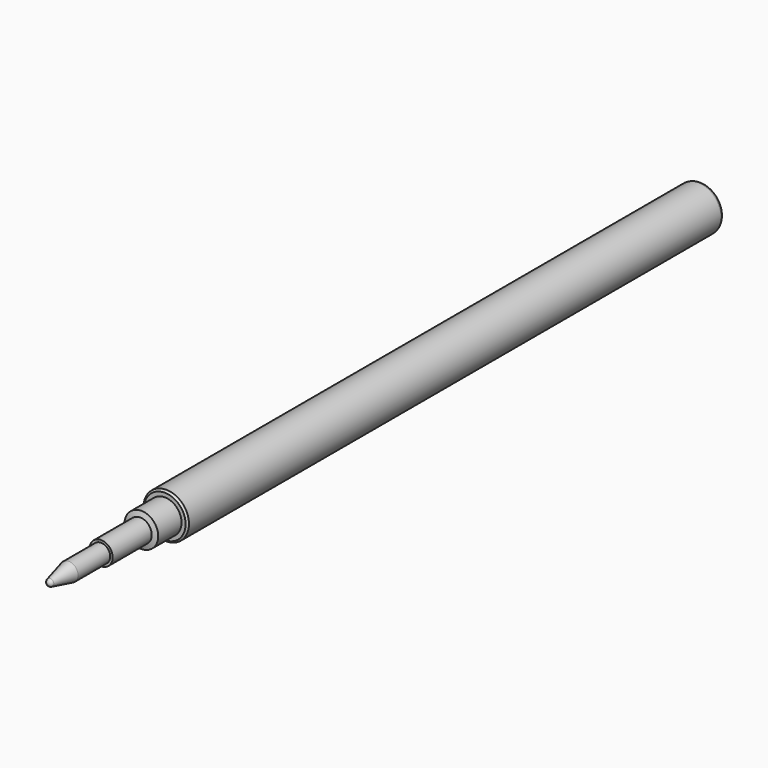
from build123d import *

# Parameters (mm, degrees)
F0_W    = 90.932
F0_H    = 3.0861
F4_SIZE = 0.254
F5_R    = 0.508


with BuildPart() as f1:
    # F0 (on Right) → F1 (revolve)
    with BuildSketch(Plane.YZ):
        with Locations((-5.334, 1.54305)):
            Rectangle(F0_W, F0_H)
    revolve(axis=Axis((0, -5.334, 0), (0, 1, 0)))

    # F2 (on Right) → F3 (revolve)
    with BuildSketch(Plane.YZ):
        with BuildLine():
            Line((-70.612, 0), (-50.8, 0))
            Line((-50.8, 0), (-50.8, 1.2446))
            Line((-50.8, 1.2446), (-50.8, 2.286))
            Line((-50.8, 2.286), (-54.7624, 2.286))
            Line((-54.7624, 2.286), (-54.970556, 1.5748))
            Line((-54.970556, 1.5748), (-61.595, 1.5748))
            Line((-61.595, 1.5748), (-61.595, 1.2446))
            Line((-61.595, 1.2446), (-67.056, 1.2446))
            Line((-67.056, 1.2446), (-70.221173, 0.494302))
            ThreePointArc((-70.221173, 0.494302), (-70.50249, 0.315071), (-70.612, 0))
        make_face()
    revolve(axis=Axis((0, -60.706, 0), (0, -1, 0)))

    # F4
    f4_edges = [f1.edges().sort_by_distance(p)[0] for p in [
        (0, -50.8, -3.0861),
    ]]
    chamfer(f4_edges, length=F4_SIZE)

    # F5
    f5_edges = [f1.edges().sort_by_distance(p)[0] for p in [
        (0, 40.132, -3.0861),
    ]]
    fillet(f5_edges, radius=F5_R)


solid = f1.part
